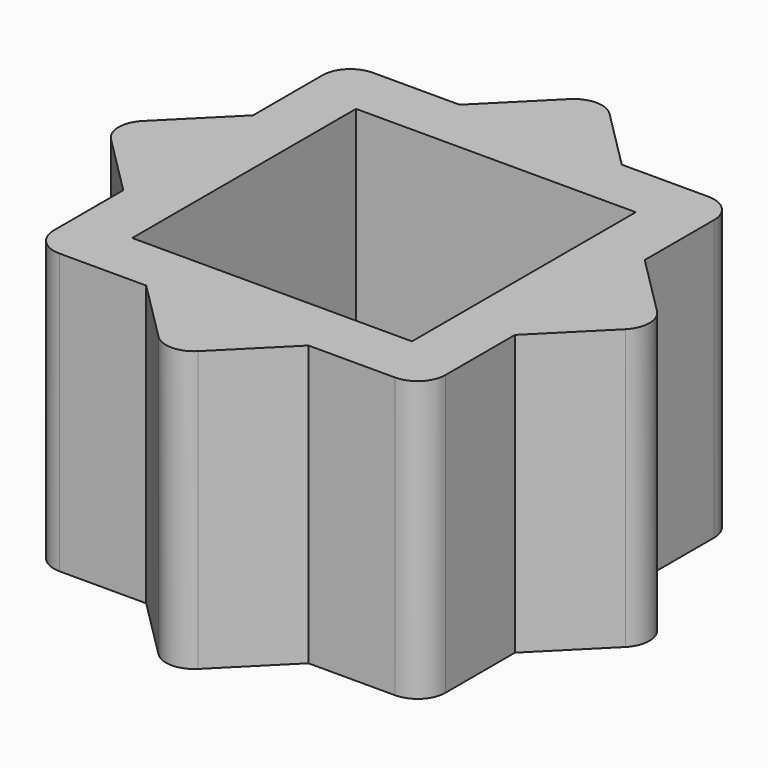
from build123d import *

# Parameters (mm, degrees)
F1_DEPTH = 10


with BuildPart() as f1:
    # F0 (on Top) → F1 (new body)
    with BuildSketch(Plane.XY):
        with BuildLine():
            Line((-2.8994949366, 7), (-6, 7))
            ThreePointArc((-6, 7), (-6.7071067812, 6.7071067812), (-7, 6))
            Line((-7, 6), (-7, 2.8994949366))
            Line((-7, 2.8994949366), (-5, 4.8994949366))
            Line((-5, 4.8994949366), (-5, 5))
            Line((-5, 5), (-4.8994949366, 5))
            Line((-4.8994949366, 5), (-2.8994949366, 7))
        make_face()
        with BuildLine():
            Line((-0.7071067812, 9.1923881554), (-2.8994949366, 7))
            Line((-2.8994949366, 7), (2.8994949366, 7))
            Line((2.8994949366, 7), (0.7071067812, 9.1923881554))
            ThreePointArc((0.7071067812, 9.1923881554), (0, 9.4852813742), (-0.7071067812, 9.1923881554))
        make_face()
        Polygon((2.8994949366, 7), (-2.8994949366, 7), (-4.8994949366, 5), (4.8994949366, 5), align=None)
        with BuildLine():
            Line((6, 7), (2.8994949366, 7))
            Line((2.8994949366, 7), (4.8994949366, 5))
            Line((4.8994949366, 5), (5, 5))
            Line((5, 5), (5, 4.8994949366))
            Line((5, 4.8994949366), (7, 2.8994949366))
            Line((7, 2.8994949366), (7, 6))
            ThreePointArc((7, 6), (6.7071067812, 6.7071067812), (6, 7))
        make_face()
        Polygon((-5, 4.8994949366), (-7, 2.8994949366), (-7, -2.8994949366), (-5, -4.8994949366), align=None)
        with BuildLine():
            Line((-7, -2.8994949366), (-7, 2.8994949366))
            Line((-7, 2.8994949366), (-9.1923881554, 0.7071067812))
            ThreePointArc((-9.1923881554, 0.7071067812), (-9.4852813742, 0), (-9.1923881554, -0.7071067812))
            Line((-9.1923881554, -0.7071067812), (-7, -2.8994949366))
        make_face()
        with BuildLine():
            Line((-5, -4.8994949366), (-7, -2.8994949366))
            Line((-7, -2.8994949366), (-7, -6))
            ThreePointArc((-7, -6), (-6.7071067812, -6.7071067812), (-6, -7))
            Line((-6, -7), (-2.8994949366, -7))
            Line((-2.8994949366, -7), (-4.8994949366, -5))
            Line((-4.8994949366, -5), (-5, -5))
            Line((-5, -5), (-5, -4.8994949366))
        make_face()
        Polygon((7, 2.8994949366), (5, 4.8994949366), (5, -4.8994949366), (7, -2.8994949366), align=None)
        with BuildLine():
            Line((9.1923881554, 0.7071067812), (7, 2.8994949366))
            Line((7, 2.8994949366), (7, -2.8994949366))
            Line((7, -2.8994949366), (9.1923881554, -0.7071067812))
            ThreePointArc((9.1923881554, -0.7071067812), (9.4852813742, 0), (9.1923881554, 0.7071067812))
        make_face()
        with BuildLine():
            Line((7, -2.8994949366), (5, -4.8994949366))
            Line((5, -4.8994949366), (5, -5))
            Line((5, -5), (4.8994949366, -5))
            Line((4.8994949366, -5), (2.8994949366, -7))
            Line((2.8994949366, -7), (6, -7))
            ThreePointArc((6, -7), (6.7071067812, -6.7071067812), (7, -6))
            Line((7, -6), (7, -2.8994949366))
        make_face()
        Polygon((4.8994949366, -5), (-4.8994949366, -5), (-2.8994949366, -7), (2.8994949366, -7), align=None)
        with BuildLine():
            Line((2.8994949366, -7), (-2.8994949366, -7))
            Line((-2.8994949366, -7), (-0.7071067812, -9.1923881554))
            ThreePointArc((-0.7071067812, -9.1923881554), (0, -9.4852813742), (0.7071067812, -9.1923881554))
            Line((0.7071067812, -9.1923881554), (2.8994949366, -7))
        make_face()
    extrude(amount=F1_DEPTH)


solid = f1.part
